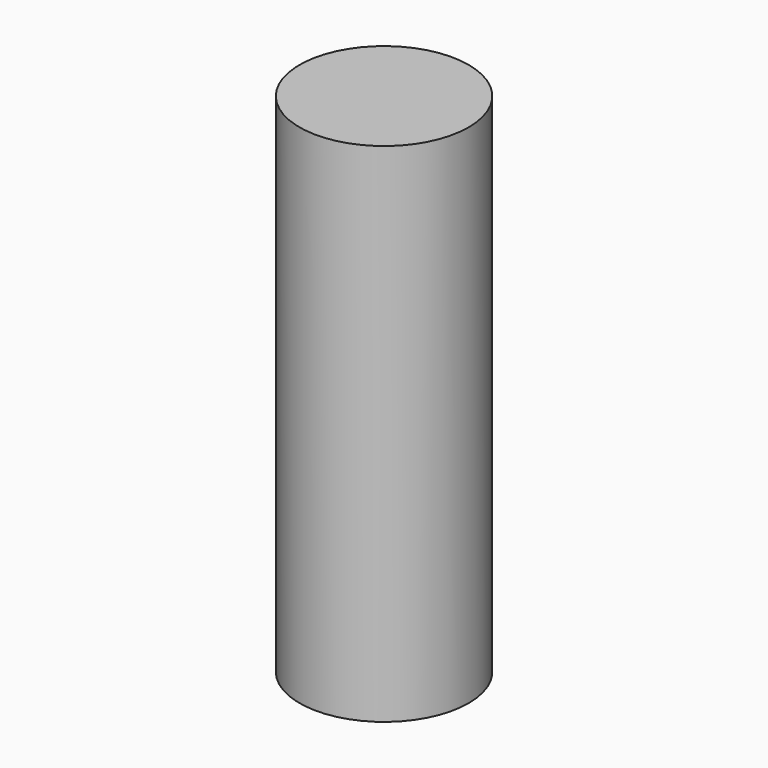
from build123d import *

# Parameters (mm, degrees)
CYLINDER_R     = 2.5019
CYLINDER_DEPTH = 15


with BuildPart() as part:
    # Cylinder → Cylinder (new body)
    with BuildSketch(Plane.XY.offset(-2.5)):
        Circle(CYLINDER_R)
    extrude(amount=CYLINDER_DEPTH)


solid = part.part
